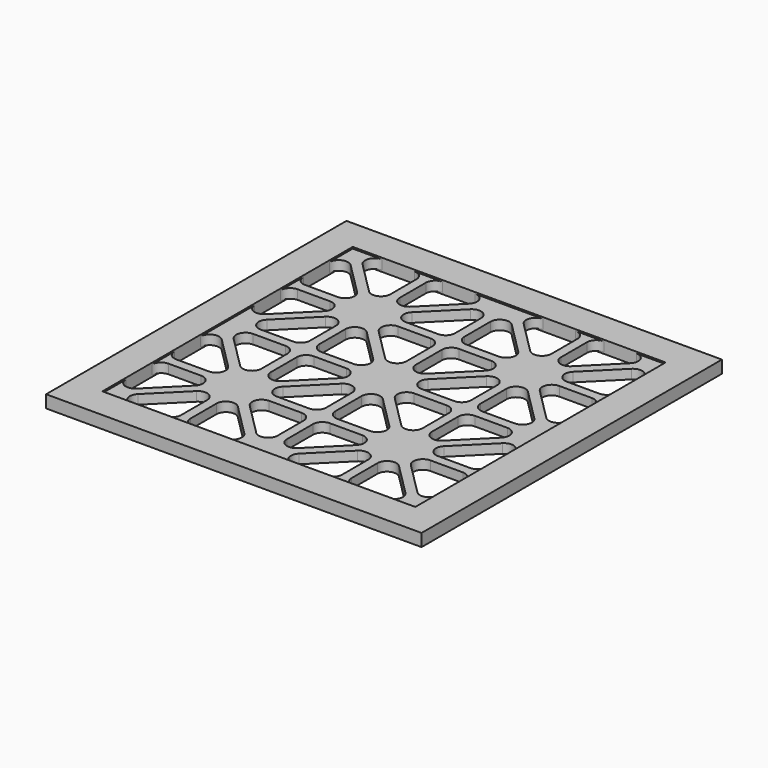
from build123d import *

# Parameters (mm, degrees)
F0_W          = 120
F0_H          = 120
F0_W_2        = 100
F0_H_2        = 100
F1_DEPTH      = 2
F1_DEPTH_BACK = 2
F3_DEPTH      = 1.5
F3_DEPTH_BACK = 1.5
F4_R          = 3


with BuildPart() as f1:
    # F0 (on Top) → F1 (new body, two sides)
    with BuildSketch(Plane.XY) as f1_sk:
        with Locations((60, 60)):
            Rectangle(F0_W, F0_H)
        with Locations((60, 60)):
            Rectangle(F0_W_2, F0_H_2, mode=Mode.SUBTRACT)
    extrude(amount=F1_DEPTH)
    extrude(f1_sk.sketch, amount=-F1_DEPTH_BACK)

    # F2 (on Top) → F3 (join, two sides)
    with BuildSketch(Plane.XY) as f3_sk:
        Polygon((56.37868, 10), (61.5, 10), (63.62132, 10), (84.25, 30.62868), (84.25, 10), (87.25, 10), (87.25, 30.62868), (107.87868, 10), (110, 10), (110, 12.12132), (89.37132, 32.75), (110, 32.75), (110, 35.75), (89.37132, 35.75), (110, 56.37868), (110, 58.5), (110, 61.5), (110, 63.62132), (89.37132, 84.25), (110, 84.25), (110, 87.25), (89.37132, 87.25), (110, 107.87868), (110, 110), (107.87868, 110), (87.25, 89.37132), (87.25, 110), (84.25, 110), (84.25, 89.37132), (63.62132, 110), (61.5, 110), (58.5, 110), (56.37868, 110), (35.75, 89.37132), (35.75, 110), (32.75, 110), (32.75, 89.37132), (12.12132, 110), (10, 110), (10, 107.87868), (30.62868, 87.25), (10, 87.25), (10, 84.25), (30.62868, 84.25), (10, 63.62132), (10, 56.37868), (30.62868, 35.75), (10, 35.75), (10, 32.75), (30.62868, 32.75), (10, 12.12132), (10, 10), (12.12132, 10), (32.75, 30.62868), (32.75, 10), (35.75, 10), (35.75, 30.62868), align=None)
        Polygon((58.5, 32.75), (58.5, 12.12132), (37.87132, 32.75), align=None, mode=Mode.SUBTRACT)
        Polygon((32.75, 37.87132), (12.12132, 58.5), (32.75, 58.5), align=None, mode=Mode.SUBTRACT)
        Polygon((58.5, 35.75), (37.87132, 35.75), (58.5, 56.37868), align=None, mode=Mode.SUBTRACT)
        Polygon((56.37868, 58.5), (35.75, 37.87132), (35.75, 58.5), align=None, mode=Mode.SUBTRACT)
        Polygon((82.12868, 32.75), (61.5, 12.12132), (61.5, 32.75), align=None, mode=Mode.SUBTRACT)
        Polygon((82.12868, 35.75), (61.5, 35.75), (61.5, 56.37868), align=None, mode=Mode.SUBTRACT)
        Polygon((84.25, 37.87132), (63.62132, 58.5), (84.25, 58.5), align=None, mode=Mode.SUBTRACT)
        Polygon((87.25, 58.5), (107.87868, 58.5), (87.25, 37.87132), align=None, mode=Mode.SUBTRACT)
        Polygon((32.75, 61.5), (12.12132, 61.5), (32.75, 82.12868), align=None, mode=Mode.SUBTRACT)
        Polygon((35.75, 61.5), (35.75, 82.12868), (56.37868, 61.5), align=None, mode=Mode.SUBTRACT)
        Polygon((58.5, 84.25), (58.5, 63.62132), (37.87132, 84.25), align=None, mode=Mode.SUBTRACT)
        Polygon((37.87132, 87.25), (58.5, 107.87868), (58.5, 87.25), align=None, mode=Mode.SUBTRACT)
        Polygon((84.25, 61.5), (63.62132, 61.5), (84.25, 82.12868), align=None, mode=Mode.SUBTRACT)
        Polygon((82.12868, 84.25), (61.5, 63.62132), (61.5, 84.25), align=None, mode=Mode.SUBTRACT)
        Polygon((87.25, 82.12868), (107.87868, 61.5), (87.25, 61.5), align=None, mode=Mode.SUBTRACT)
        Polygon((61.5, 87.25), (61.5, 107.87868), (82.12868, 87.25), align=None, mode=Mode.SUBTRACT)
    extrude(amount=F3_DEPTH)
    extrude(f3_sk.sketch, amount=-F3_DEPTH_BACK)

    # F4
    f4_edges = [f1.edges().sort_by_distance(p)[0] for p in [
        (32.75, 82.12868, 0),
        (58.5, 84.25, 0),
        (32.75, 30.62868, 0),
        (58.5, 32.75, 0),
        (84.25, 110, 0),
        (110, 107.87868, 0),
        (110, 84.25, 0),
        (84.25, 58.5, 0),
        (84.25, 30.62868, 0),
        (32.75, 110, 0),
        (32.75, 58.5, 0),
        (58.5, 56.37868, 0),
        (35.75, 58.5, 0),
        (12.12132, 110, 0),
        (10, 84.25, 0),
        (10, 32.75, 0),
        (61.5, 32.75, 0),
        (35.75, 110, 0),
        (87.25, 110, 0),
        (61.5, 84.25, 0),
        (61.5, 56.37868, 0),
        (61.5, 107.87868, 0),
        (87.25, 82.12868, 0),
        (87.25, 58.5, 0),
        (87.25, 30.62868, 0),
        (35.75, 30.62868, 0),
        (10, 107.87868, 0),
        (10, 56.37868, 0),
        (63.62132, 58.5, 0),
        (37.87132, 32.75, 0),
        (89.37132, 32.75, 0),
        (89.37132, 84.25, 0),
        (37.87132, 84.25, 0),
        (63.62132, 110, 0),
        (56.37868, 110, 0),
        (82.12868, 84.25, 0),
        (30.62868, 84.25, 0),
        (30.62868, 32.75, 0),
        (82.12868, 32.75, 0),
        (110, 32.75, 0),
        (107.87868, 58.5, 0),
        (10, 35.75, 0),
        (10, 87.25, 0),
        (35.75, 10, 0),
        (87.25, 10, 0),
        (37.87132, 35.75, 0),
        (89.37132, 35.75, 0),
        (87.25, 61.5, 0),
        (35.75, 61.5, 0),
        (61.5, 87.25, 0),
        (89.37132, 87.25, 0),
        (37.87132, 87.25, 0),
        (12.12132, 61.5, 0),
        (12.12132, 10, 0),
        (63.62132, 10, 0),
        (84.25, 10, 0),
        (56.37868, 10, 0),
        (32.75, 10, 0),
        (30.62868, 35.75, 0),
        (58.5, 35.75, 0),
        (58.5, 87.25, 0),
        (82.12868, 35.75, 0),
        (110, 35.75, 0),
        (110, 87.25, 0),
        (61.5, 35.75, 0),
        (32.75, 61.5, 0),
        (84.25, 61.5, 0),
        (87.25, 37.87132, 0),
        (87.25, 89.37132, 0),
        (35.75, 37.87132, 0),
        (35.75, 89.37132, 0),
        (30.62868, 87.25, 0),
        (82.12868, 87.25, 0),
        (56.37868, 61.5, 0),
        (63.62132, 61.5, 0),
        (10, 63.62132, 0),
        (84.25, 89.37132, 0),
        (12.12132, 58.5, 0),
        (10, 12.12132, 0),
        (84.25, 37.87132, 0),
        (32.75, 89.37132, 0),
        (32.75, 37.87132, 0),
        (110, 12.12132, 0),
        (107.87868, 10, 0),
        (107.87868, 61.5, 0),
        (107.87868, 110, 0),
        (58.5, 12.12132, 0),
        (61.5, 12.12132, 0),
        (61.5, 63.62132, 0),
        (58.5, 63.62132, 0),
        (110, 56.37868, 0),
        (110, 63.62132, 0),
        (56.37868, 58.5, 0),
        (35.75, 82.12868, 0),
        (84.25, 82.12868, 0),
        (58.5, 107.87868, 0),
    ]]
    fillet(f4_edges, radius=F4_R)


solid = f1.part
